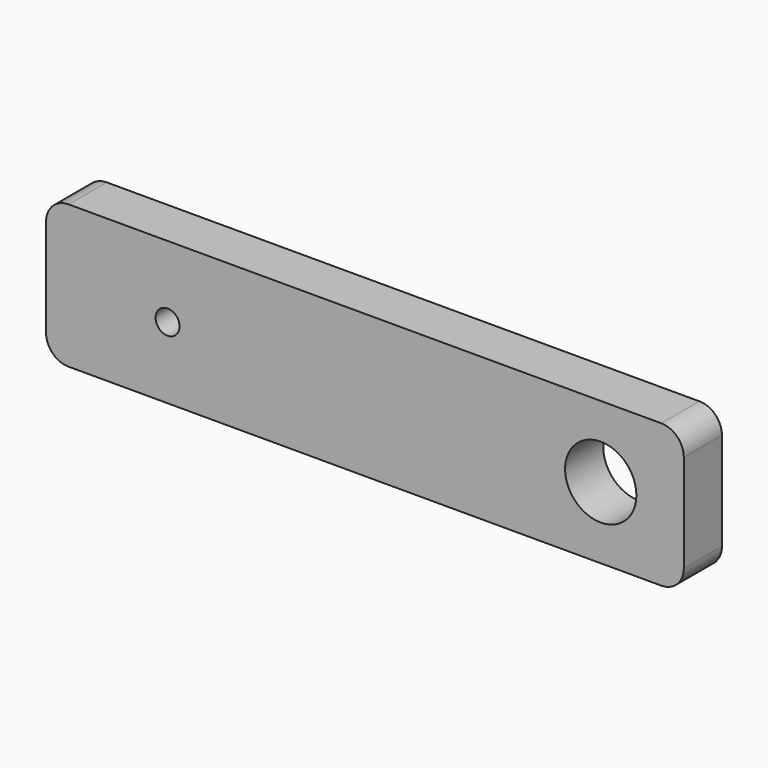
from build123d import *

# Parameters (mm, degrees)
F0_R     = 1.6
F0_R_2   = 4.75
F1_DEPTH = 6.35
F2_R     = 1.5
F3_DEPTH = 5
F4_DEPTH = 25
F5_DEPTH = 25


with BuildPart() as f1:
    # F0 (on Front) → F1 (new body)
    with BuildSketch(Plane.XZ):
        with BuildLine():
            Line((39.5, 9.525), (-39.5, 9.525))
            ThreePointArc((-39.5, 9.525), (-41.62132, 8.64632), (-42.5, 6.525))
            Line((-42.5, 6.525), (-42.5, -6.525))
            ThreePointArc((-42.5, -6.525), (-41.62132, -8.64632), (-39.5, -9.525))
            Line((-39.5, -9.525), (39.5, -9.525))
            ThreePointArc((39.5, -9.525), (41.62132, -8.64632), (42.5, -6.525))
            Line((42.5, -6.525), (42.5, 6.525))
            ThreePointArc((42.5, 6.525), (41.62132, 8.64632), (39.5, 9.525))
        make_face()
        with Locations((-26.306301, 0)):
            Circle(F0_R, mode=Mode.SUBTRACT)
        with Locations((31.427883, 0)):
            Circle(F0_R_2, mode=Mode.SUBTRACT)
        with Locations((-26.306301, 0)):
            Circle(F0_R)
    extrude(amount=F1_DEPTH)

    # F2 (on face) → F3 (cut)
    with BuildSketch(Plane(origin=(0, 0, -9.525), x_dir=(1, 0, 0), z_dir=(0, 0, -1))):
        with Locations((-21.000051, 3.13143)):
            Circle(F2_R)
        with Locations((21.000392, 3.295432)):
            Circle(F2_R)
    extrude(amount=-F3_DEPTH, mode=Mode.SUBTRACT)

    # F0 (on Front) → F4 (cut)
    with BuildSketch(Plane.XZ):
        with Locations((-26.306301, 0)):
            Circle(F0_R)
    extrude(amount=-F4_DEPTH, mode=Mode.SUBTRACT)

    # F0 (on Front) → F5 (cut)
    with BuildSketch(Plane.XZ):
        with Locations((-26.306301, 0)):
            Circle(F0_R)
    extrude(amount=F5_DEPTH, mode=Mode.SUBTRACT)


solid = f1.part
